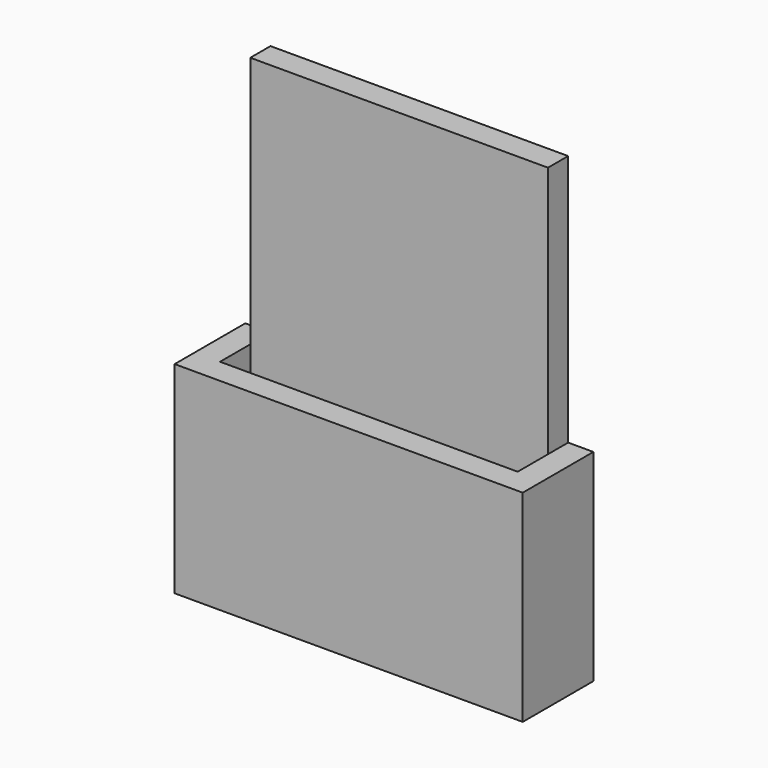
from build123d import *

# Parameters (mm, degrees)
F1_DEPTH = 59
F2_W     = 17.5
F2_H     = 40
F3_DEPTH = 5
F4_W     = 17.5
F4_H     = 40
F5_DEPTH = 5


with BuildPart() as f1:
    # F0 (on Right) → F1 (new body)
    with BuildSketch(Plane.YZ):
        Polygon((-17.5, 0), (0, 0), (0, 90), (-5, 90), (-5, 8), (-12.5, 8), (-12.5, 40), (-17.5, 40), align=None)
    extrude(amount=F1_DEPTH)

    # F2 (on face) → F3 (join)
    with BuildSketch(Plane.YZ.offset(59)):
        with Locations((-8.75, 20)):
            Rectangle(F2_W, F2_H)
    extrude(amount=F3_DEPTH)

    # F4 (on face) → F5 (join)
    with BuildSketch(Plane(origin=(0, 0, 0), x_dir=(0, -1, 0), z_dir=(-1, 0, 0))):
        with Locations((8.75, 20)):
            Rectangle(F4_W, F4_H)
    extrude(amount=F5_DEPTH)


solid = f1.part
